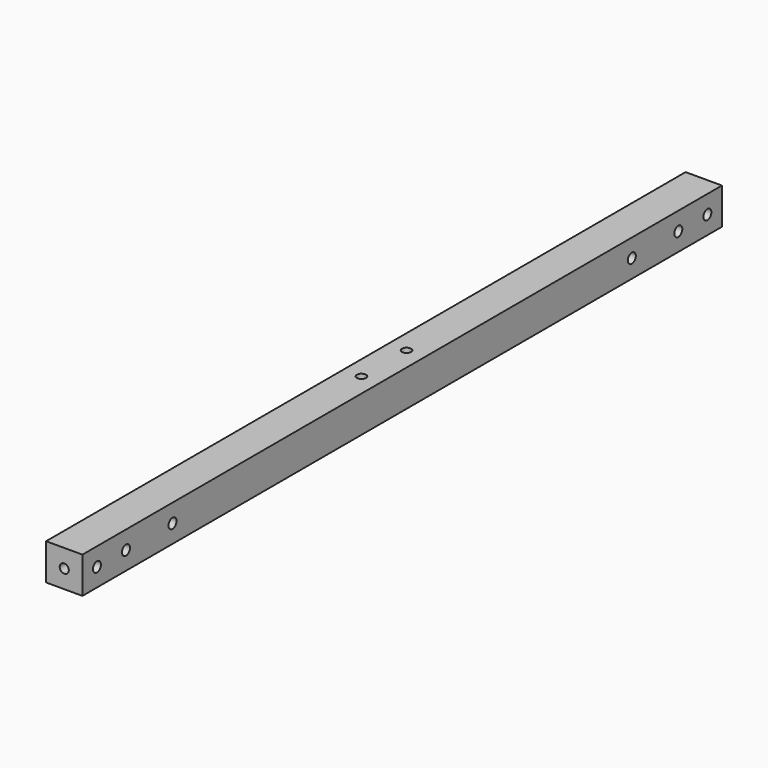
from build123d import *

# Parameters (mm, degrees)
F0_W     = 20
F0_H     = 20
F0_R     = 2.5
F1_DEPTH = 220
F2_R     = 2.75
F3_DEPTH = 20
F4_R     = 2.5
F5_DEPTH = 10


with BuildPart() as f1:
    # F0 (on Front) → F1 (new body, symmetric)
    with BuildSketch(Plane.XZ):
        Rectangle(F0_W, F0_H)
        Circle(F0_R, mode=Mode.SUBTRACT)
    extrude(amount=F1_DEPTH, both=True)

    # F2 (on face) → F3 (cut)
    with BuildSketch(Plane(origin=(-10, 0, 0), x_dir=(0, -1, 0), z_dir=(-1, 0, 0))):
        with Locations((-190, 0)):
            Circle(F2_R)
        with Locations((-158, 0)):
            Circle(F2_R)
        with Locations((158, 0)):
            Circle(F2_R)
        with Locations((190, 0)):
            Circle(F2_R)
        with Locations((-210, 0)):
            Circle(F2_R)
        with Locations((210, 0)):
            Circle(F2_R)
    extrude(amount=-F3_DEPTH, mode=Mode.SUBTRACT)

    # F4 (on Top) → F5 (cut, symmetric)
    with BuildSketch(Plane.XY):
        with Locations((0, 15.5)):
            Circle(F4_R)
        with Locations((0, -15.5)):
            Circle(F4_R)
    extrude(amount=F5_DEPTH, both=True, mode=Mode.SUBTRACT)


solid = f1.part
